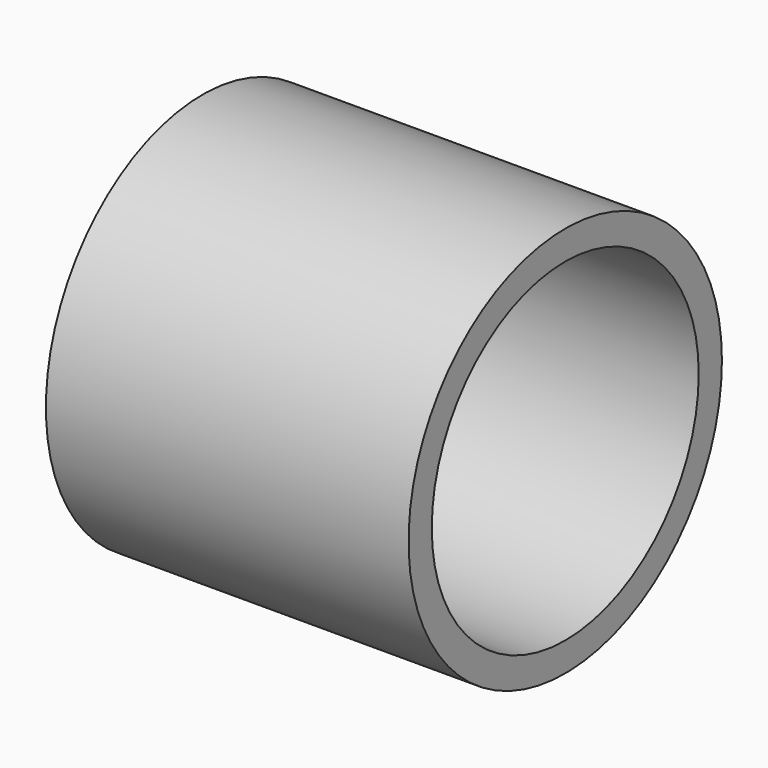
from build123d import *

# Parameters (mm, degrees)
SKETCH_R   = 13.716
SKETCH_R_2 = 11.684
PAD_DEPTH  = 25.4


with BuildPart() as part:
    # Sketch → Pad (new body)
    with BuildSketch(Plane.YZ):
        Circle(SKETCH_R)
        Circle(SKETCH_R_2, mode=Mode.SUBTRACT)
    extrude(amount=PAD_DEPTH)


solid = part.part
